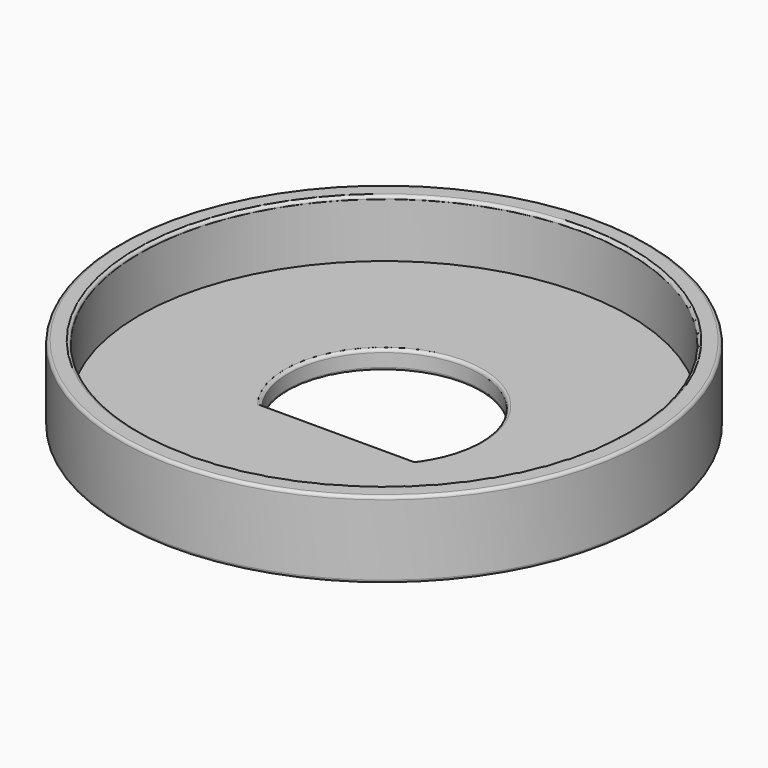
from build123d import *

# Parameters (mm, degrees)
F0_R     = 21.844
F1_DEPTH = 1.5875
F2_R     = 21.844
F2_R_2   = 20.2565
F3_DEPTH = 4.7625
F5_DEPTH = 25.4
F6_R     = 0.254


with BuildPart() as f1:
    # F0 (on Top) → F1 (new body)
    with BuildSketch(Plane.XY):
        Circle(F0_R)
    extrude(amount=F1_DEPTH)

    # F2 (on face) → F3 (join)
    with BuildSketch(Plane.XY.offset(1.5875)):
        Circle(F2_R)
        Circle(F2_R_2, mode=Mode.SUBTRACT)
    extrude(amount=F3_DEPTH)

    # F4 (on face) → F5 (cut)
    with BuildSketch(Plane.XY.offset(1.5875)):
        with BuildLine():
            Line((-6.35, -4.7625), (6.35, -4.7625))
            ThreePointArc((6.35, -4.7625), (0, 7.9375), (-6.35, -4.7625))
        make_face()
    extrude(amount=-F5_DEPTH, mode=Mode.SUBTRACT)

    # F6
    f6_edges = [f1.edges().sort_by_distance(p)[0] for p in [
        (-21.844, 0, 6.35),
        (-20.2565, 0, 6.35),
        (-21.844, 0, 0),
        (0, 7.9375, 1.5875),
        (0, -4.7625, 0),
        (0, 7.9375, 0),
        (0, -4.7625, 1.5875),
    ]]
    fillet(f6_edges, radius=F6_R)


solid = f1.part
